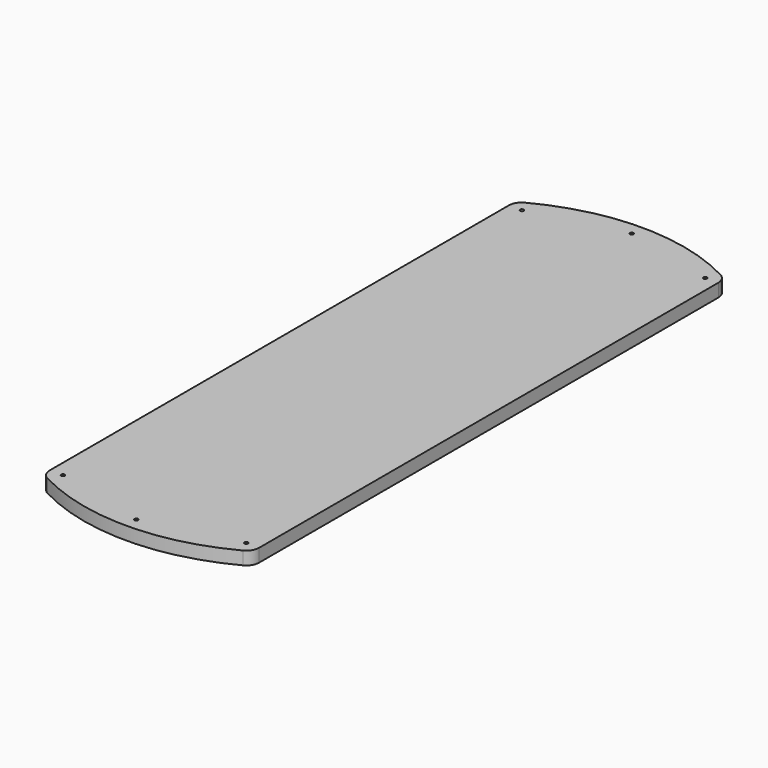
from build123d import *

# Parameters (mm, degrees)
F0_R     = 1.7272
F1_DEPTH = 12.7


with BuildPart() as f1:
    # F0 (on Top) → F1 (new body)
    with BuildSketch(Plane.XY):
        with BuildLine():
            Line((101.6, -278.305732), (101.6, 278.305732))
            ThreePointArc((101.6, 278.305732), (99.77563, 284.863984), (94.826667, 289.538035))
            ThreePointArc((94.826667, 289.538035), (0, 313.021193), (-94.826667, 289.538035))
            ThreePointArc((-94.826667, 289.538035), (-99.77563, 284.863984), (-101.6, 278.305732))
            Line((-101.6, 278.305732), (-101.6, -278.305732))
            ThreePointArc((-101.6, -278.305732), (-99.77563, -284.863984), (-94.826667, -289.538035))
            ThreePointArc((-94.826667, -289.538035), (0, -313.021193), (94.826667, -289.538035))
            ThreePointArc((94.826667, -289.538035), (99.77563, -284.863984), (101.6, -278.305732))
        make_face()
        with Locations((-88.9, -278.305732)):
            Circle(F0_R, mode=Mode.SUBTRACT)
        with Locations((0, -300.321193)):
            Circle(F0_R, mode=Mode.SUBTRACT)
        with Locations((88.9, -278.305732)):
            Circle(F0_R, mode=Mode.SUBTRACT)
        with Locations((-88.9, 278.305732)):
            Circle(F0_R, mode=Mode.SUBTRACT)
        with Locations((0, 300.321193)):
            Circle(F0_R, mode=Mode.SUBTRACT)
        with Locations((88.9, 278.305732)):
            Circle(F0_R, mode=Mode.SUBTRACT)
    extrude(amount=F1_DEPTH)


solid = f1.part
